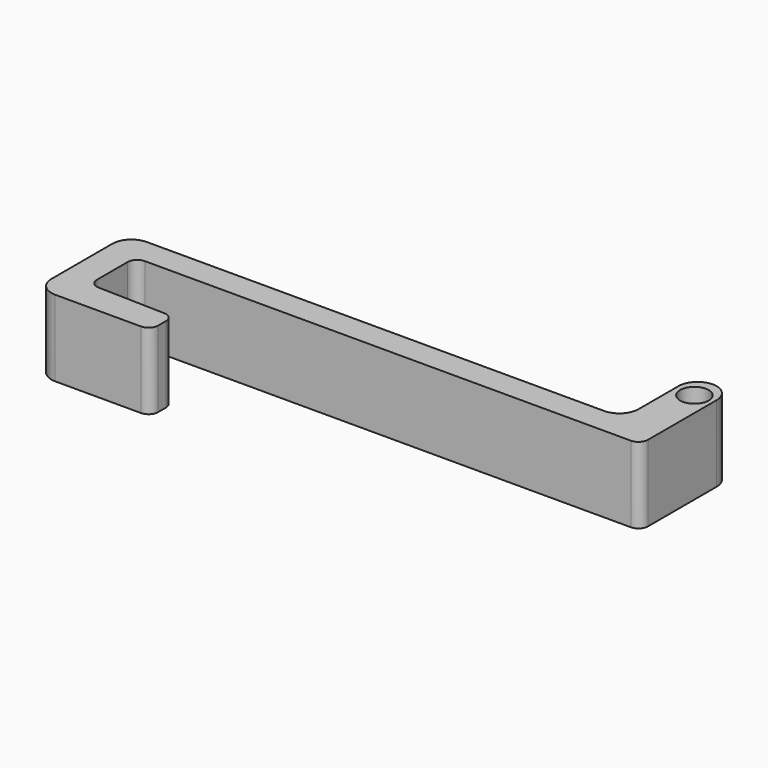
from build123d import *

# Parameters (mm, degrees)
F0_R     = 4.7625
F1_DEPTH = 25.4
F2_ANGLE = 90


with BuildPart() as f1:
    # F0 (on Right) → F1 (new body)
    with BuildSketch(Plane.YZ):
        with BuildLine():
            Line((-20.40446, 20.59559), (-17.143665, 20.59559))
            ThreePointArc((-17.143665, 20.59559), (-14.929557, 21.494991), (-13.969856, 23.683636))
            Line((-13.969856, 23.683636), (-13.356482, 46.071825))
            ThreePointArc((-13.356482, 46.071825), (-12.39678, 48.260471), (-10.182672, 49.159872))
            Line((-10.182672, 49.159872), (2.603122, 49.159872))
            ThreePointArc((2.603122, 49.159872), (4.848186, 48.229936), (5.778122, 45.984872))
            Line((5.778122, 45.984872), (5.778122, -115.927688))
            ThreePointArc((5.778122, -115.927688), (6.708058, -118.172752), (8.953122, -119.102688))
            Line((8.953122, -119.102688), (37.528122, -119.102688))
            ThreePointArc((37.528122, -119.102688), (42.01825, -117.242816), (43.878122, -112.752688))
            ThreePointArc((43.878122, -112.752688), (42.01825, -108.26256), (37.528122, -106.402688))
            Line((37.528122, -106.402688), (20.87054, -106.402688))
            ThreePointArc((20.87054, -106.402688), (16.380412, -104.542816), (14.52054, -100.052688))
            Line((14.52054, -100.052688), (14.52054, 52.34559))
            ThreePointArc((14.52054, 52.34559), (12.660668, 56.835718), (8.17054, 58.69559))
            Line((8.17054, 58.69559), (-17.22946, 58.69559))
            ThreePointArc((-17.22946, 58.69559), (-21.719588, 56.835718), (-23.57946, 52.34559))
            Line((-23.57946, 52.34559), (-23.57946, 23.77059))
            ThreePointArc((-23.57946, 23.77059), (-22.649524, 21.525526), (-20.40446, 20.59559))
        make_face()
        with Locations((36.073726, -112.88275)):
            Circle(F0_R, mode=Mode.SUBTRACT)
    extrude(amount=F1_DEPTH)


with BuildPart() as f1_1:
    # F2: moved
    add(f1.part.rotate(Axis((25.4, 23.240622, -119.102688), (0, -1, 0)), F2_ANGLE))


solid = f1_1.part
